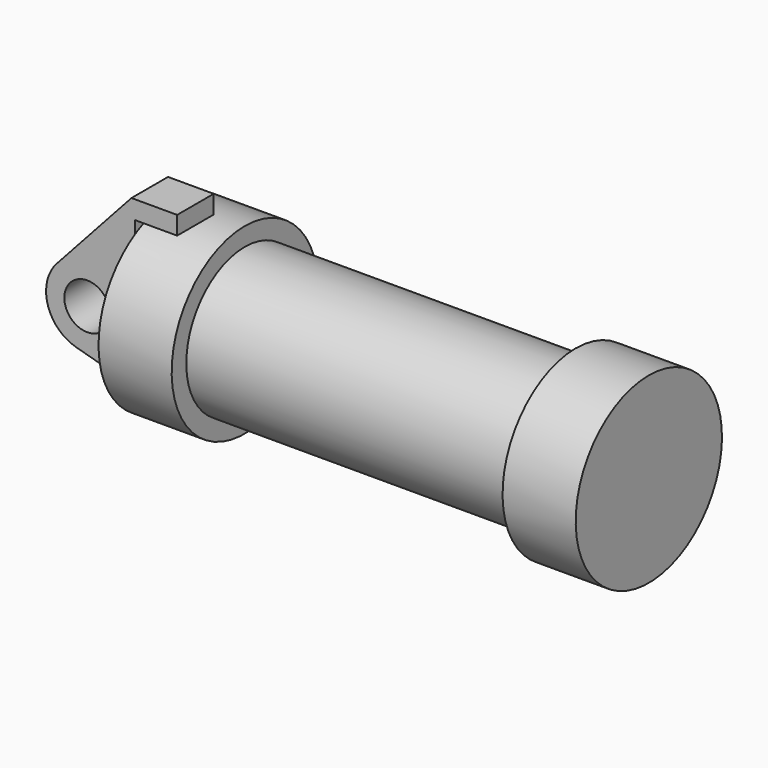
from build123d import *

# Parameters (mm, degrees)
F0_W     = 5.842
F0_H     = 12.7
F0_R     = 3.175
F2_DEPTH = 6.35


with BuildPart() as f1:
    # F0 (on Front) → F1 (revolve)
    with BuildSketch(Plane.XZ):
        Polygon((5.842, 12.7), (5.842, 0), (66.294, 0), (66.294, 12.7), (56.134, 12.7), (56.134, 10.16), (10.16, 10.16), (10.16, 12.7), align=None)
        with Locations((2.921, 6.35)):
            Rectangle(F0_W, F0_H)
    revolve(axis=Axis((33.147, 0, 0), (-1, 0, 0)))


with BuildPart() as f2:
    # F0 (on Front) → F2 (new body)
    with BuildSketch(Plane.XZ):
        with BuildLine():
            Line((-0.9398, 0), (0, 0))
            Line((0, 0), (0, 12.7))
            Line((0, 12.7), (5.842, 12.7))
            Line((5.842, 12.7), (5.842, 15.24))
            Line((5.842, 15.24), (-0.508, 15.24))
            Line((-0.508, 15.24), (-10.88063, 3.847543))
            ThreePointArc((-10.88063, 3.847543), (-4.591961, 5.329721), (-0.9398, 0))
        make_face()
        with BuildLine():
            ThreePointArc((-8.182663, -5.506983), (-3.195791, -4.549339), (-0.9398, 0))
            ThreePointArc((-0.9398, 0), (-4.591961, 5.329721), (-10.88063, 3.847543))
            ThreePointArc((-10.88063, 3.847543), (-12.145978, -1.583727), (-8.182663, -5.506983))
        make_face()
        with Locations((-6.6548, 0)):
            Circle(F0_R, mode=Mode.SUBTRACT)
        with BuildLine():
            Line((5.842, 0), (0, 0))
            Line((0, 0), (-0.9398, 0))
            ThreePointArc((-0.9398, 0), (-3.195791, -4.549339), (-8.182663, -5.506983))
            Line((-8.182663, -5.506983), (5.842, -9.398))
            Line((5.842, -9.398), (5.842, 0))
        make_face()
    extrude(amount=F2_DEPTH)


solid = Compound([f1.part, f2.part])
